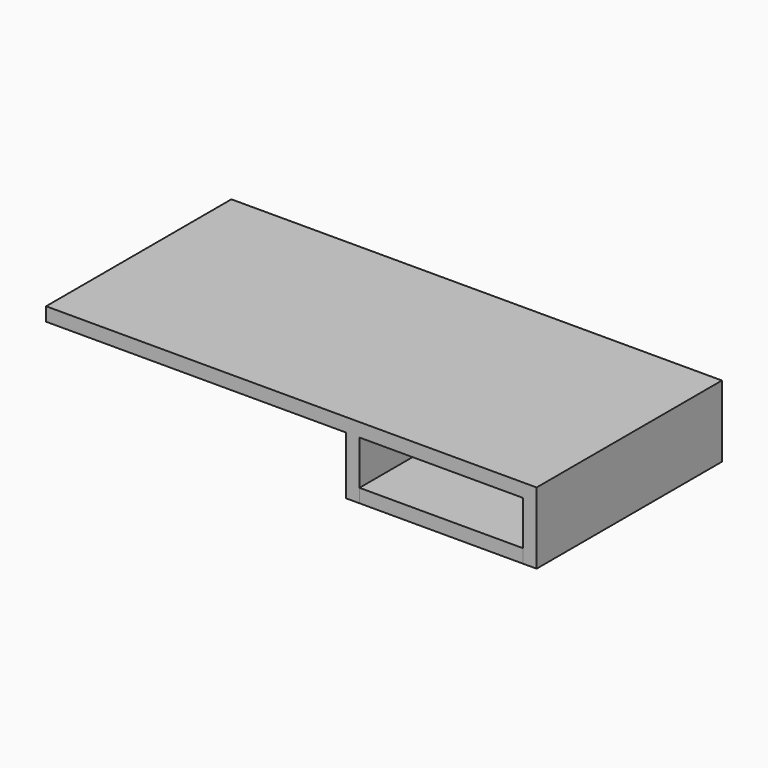
from build123d import *

# Parameters (mm, degrees)
F0_W     = 914.4
F0_H     = 431.8
F1_DEPTH = 25.4
F2_W     = 25.4
F2_H     = 431.8
F3_DEPTH = 107.95
F4_W     = 431.8
F4_H     = 25.4
F5_DEPTH = 25.4
F6_DEPTH = 304.8


with BuildPart() as f1:
    # F0 (on Top) → F1 (new body)
    with BuildSketch(Plane.XY):
        with Locations((33.560222, 26.604218)):
            Rectangle(F0_W, F0_H)
    extrude(amount=F1_DEPTH)

    # F2 (on face) → F3 (join)
    with BuildSketch(Plane(origin=(0, 0, 0), x_dir=(1, 0, 0), z_dir=(0, 0, -1))):
        with Locations((478.060222, -26.604218)):
            Rectangle(F2_W, F2_H)
        with Locations((147.860222, -26.604218)):
            Rectangle(F2_W, F2_H)
    extrude(amount=F3_DEPTH)


with BuildPart() as f5:
    # F4 (on face) → F5 (new body)
    with BuildSketch(Plane(origin=(465.360222, 0, 0), x_dir=(0, -1, 0), z_dir=(-1, 0, 0))):
        with Locations((-26.604218, -95.25)):
            Rectangle(F4_W, F4_H)
    extrude(amount=F5_DEPTH)


with BuildPart() as f6:
    # F4 (on face) → F6 (new body)
    with BuildSketch(Plane(origin=(465.360222, 0, 0), x_dir=(0, -1, 0), z_dir=(-1, 0, 0))):
        with Locations((-26.604218, -95.25)):
            Rectangle(F4_W, F4_H)
    extrude(amount=F6_DEPTH)


solid = Compound([f1.part, f5.part, f6.part])
